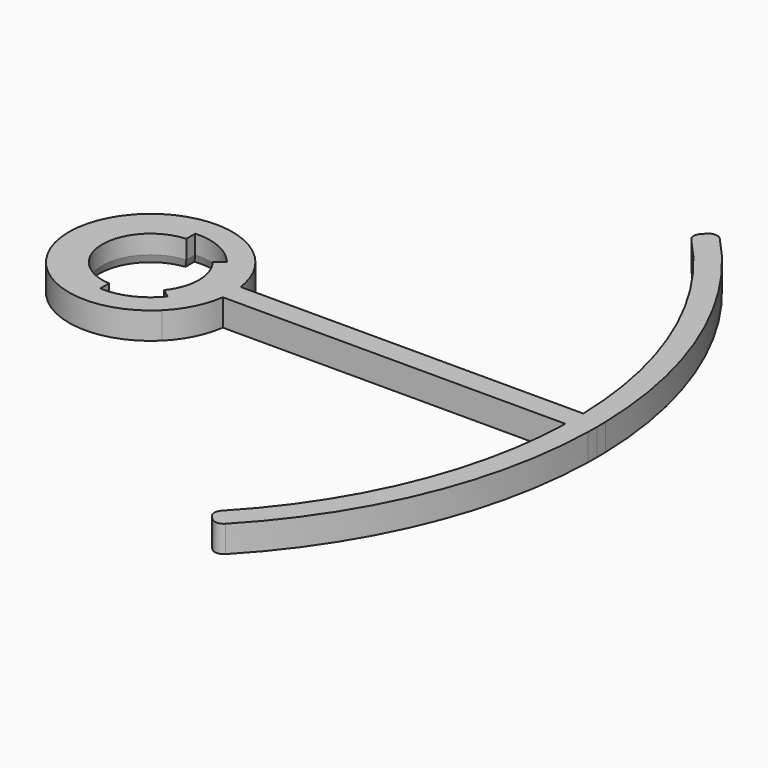
from build123d import *

# Parameters (mm, degrees)
F1_DEPTH = 1.8
F2_R     = 0.6
F3_SIZE2 = 0.5494954839
F3_SIZE  = 0.2


with BuildPart() as f1:
    # F0 (on Top) → F1 (new body)
    with BuildSketch(Plane.XY):
        with BuildLine():
            Line((29.9906235347, 0.75), (28.4901298698, 0.75))
            ThreePointArc((28.4901298698, 0.75), (28.4975323606, 0.3750324718), (28.5, 0))
            ThreePointArc((28.5, 0), (28.4975323606, -0.3750324718), (28.4901298698, -0.75))
            Line((28.4901298698, -0.75), (29.9906235347, -0.75))
            Line((29.9906235347, -0.75), (29.9906235347, 0.75))
        make_face()
        with BuildLine():
            Line((21.2132034356, 21.2132034356), (20.1525432638, 20.1525432638))
            ThreePointArc((20.1525432638, 20.1525432638), (26.1847681615, 11.2520183224), (28.4901298698, 0.75))
            Line((28.4901298698, 0.75), (29.9906235347, 0.75))
            ThreePointArc((29.9906235347, 0.75), (27.570702708, 11.8260877803), (21.2132034356, 21.2132034356))
        make_face()
        with BuildLine():
            Line((28.4901298698, 0.75), (5.4486236794, 0.75))
            ThreePointArc((5.4486236794, 0.75), (5.4871408874, 0.3758788124), (5.5, 0))
            ThreePointArc((5.5, 0), (5.4871408874, -0.3758788124), (5.4486236794, -0.75))
            Line((5.4486236794, -0.75), (28.4901298698, -0.75))
            ThreePointArc((28.4901298698, -0.75), (28.4975323606, -0.3750324718), (28.5, 0))
            ThreePointArc((28.5, 0), (28.4975323606, 0.3750324718), (28.4901298698, 0.75))
        make_face()
        with BuildLine():
            ThreePointArc((28.4901298698, -0.75), (26.1847681615, -11.2520183224), (20.1525432638, -20.1525432638))
            Line((20.1525432638, -20.1525432638), (21.2132034356, -21.2132034356))
            ThreePointArc((21.2132034356, -21.2132034356), (27.570702708, -11.8260877803), (29.9906235347, -0.75))
            Line((29.9906235347, -0.75), (28.4901298698, -0.75))
        make_face()
        with BuildLine():
            ThreePointArc((3.1224989992, 2.5), (3.7742546282, 1.3247648854), (4, 0))
            ThreePointArc((4, 0), (3.7742546282, -1.3247648854), (3.1224989992, -2.5))
            ThreePointArc((3.1224989992, -2.5), (2.979991028, -2.6682678787), (2.8284271247, -2.8284271247))
            Line((2.8284271247, -2.8284271247), (3.8890872965, -3.8890872965))
            ThreePointArc((3.8890872965, -3.8890872965), (4.9256145638, -2.4471046501), (5.4486236794, -0.75))
            Line((5.4486236794, -0.75), (5.4486236794, 0.75))
            ThreePointArc((5.4486236794, 0.75), (4.9256145638, 2.4471046501), (3.8890872965, 3.8890872965))
            Line((3.8890872965, 3.8890872965), (2.8284271247, 2.8284271247))
            ThreePointArc((2.8284271247, 2.8284271247), (2.979991028, 2.6682678787), (3.1224989992, 2.5))
        make_face()
        with BuildLine():
            ThreePointArc((3.1224989992, -2.5), (3.7742546282, -1.3247648854), (4, 0))
            ThreePointArc((4, 0), (3.7742546282, 1.3247648854), (3.1224989992, 2.5))
            Line((3.1224989992, 2.5), (2.5370304368, 2.03125))
            ThreePointArc((2.5370304368, 2.03125), (3.0665818854, 1.0763714694), (3.25, 0))
            ThreePointArc((3.25, 0), (3.0665818854, -1.0763714694), (2.5370304368, -2.03125))
            Line((2.5370304368, -2.03125), (3.1224989992, -2.5))
        make_face()
        with BuildLine():
            Line((-0.2, 3.2438403167), (-0.2, 3.9949968711))
            ThreePointArc((-0.2, 3.9949968711), (-4, 0), (-0.2, -3.9949968711))
            Line((-0.2, -3.9949968711), (-0.2, -3.2438403167))
            ThreePointArc((-0.2, -3.2438403167), (-3.25, 0), (-0.2, 3.2438403167))
        make_face()
        with BuildLine():
            ThreePointArc((-0.2, 3.9949968711), (1.4378381449, 3.7326426924), (2.8284271247, 2.8284271247))
            Line((2.8284271247, 2.8284271247), (3.8890872965, 3.8890872965))
            ThreePointArc((3.8890872965, 3.8890872965), (-5.5, 0), (3.8890872965, -3.8890872965))
            Line((3.8890872965, -3.8890872965), (2.8284271247, -2.8284271247))
            ThreePointArc((2.8284271247, -2.8284271247), (1.4378381449, -3.7326426924), (-0.2, -3.9949968711))
            ThreePointArc((-0.2, -3.9949968711), (-4, 0), (-0.2, 3.9949968711))
        make_face()
        with BuildLine():
            ThreePointArc((5.5, 0), (5.4871408874, 0.3758788124), (5.4486236794, 0.75))
            Line((5.4486236794, 0.75), (5.4486236794, -0.75))
            ThreePointArc((5.4486236794, -0.75), (5.4871408874, -0.3758788124), (5.5, 0))
        make_face()
        with BuildLine():
            ThreePointArc((30, 0), (29.9976557921, 0.3750293049), (29.9906235347, 0.75))
            Line((29.9906235347, 0.75), (29.9906235347, -0.75))
            ThreePointArc((29.9906235347, -0.75), (29.9976557921, -0.3750293049), (30, 0))
        make_face()
    extrude(amount=F1_DEPTH)

    # F2
    f2_edges = [f1.edges().sort_by_distance(p)[0] for p in [
        (21.213203, -21.213203, 0.9),
        (20.152543, -20.152543, 0.9),
        (21.213203, 21.213203, 0.9),
        (20.152543, 20.152543, 0.9),
    ]]
    fillet(f2_edges, radius=F2_R)

    # F3
    f3_edges = [f1.edges().sort_by_distance(p)[0] for p in [
        (-3.25, 0, 0),
        (-0.2, 3.619419, 0),
        (1.641342, 3.647738, 0),
        (3.25, 0, 0),
        (2.829765, 2.265625, 0),
        (2.829765, -2.265625, 0),
        (1.641342, -3.647738, 0),
        (-0.2, -3.619419, 0),
    ]]
    f3_side = f1.faces().sort_by_distance((14.942774, 0, 0))[0]
    chamfer(f3_edges, length=F3_SIZE, length2=F3_SIZE2, reference=f3_side)


solid = f1.part
